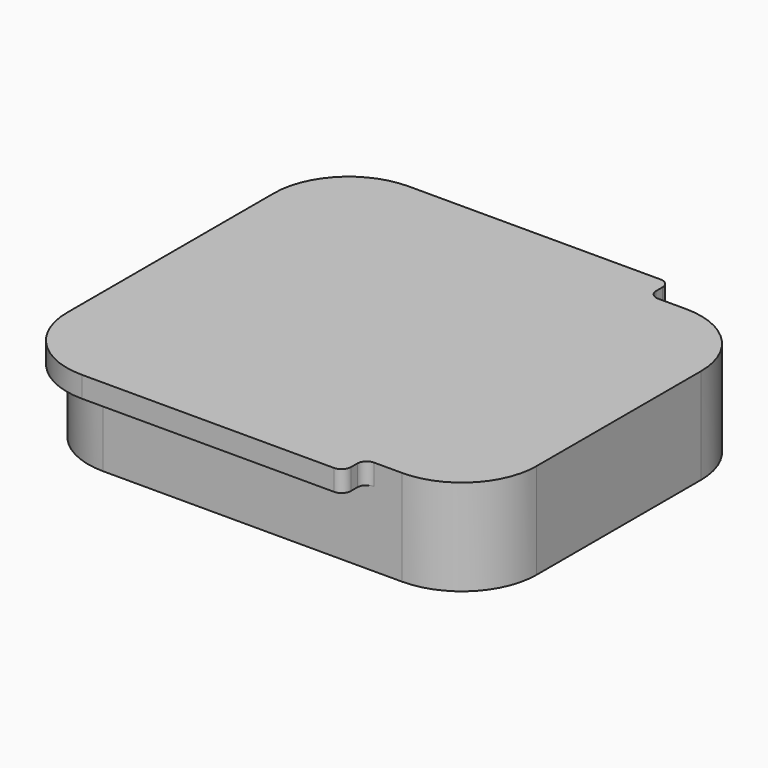
from build123d import *

# Parameters (mm, degrees)
F1_DEPTH = 10.25
F2_T     = -1.9
F4_DEPTH = 2.25
F5_R     = 1


with BuildPart() as f1:
    # F0 (on Top) → F1 (new body)
    with BuildSketch(Plane.XY):
        with BuildLine():
            Line((16, 19), (-16, 19))
            ThreePointArc((-16, 19), (-21.6568542495, 16.6568542495), (-24, 11))
            Line((-24, 11), (-24, -11))
            ThreePointArc((-24, -11), (-21.6568542495, -16.6568542495), (-16, -19))
            Line((-16, -19), (16, -19))
            ThreePointArc((16, -19), (21.6568542495, -16.6568542495), (24, -11))
            Line((24, -11), (24, 11))
            ThreePointArc((24, 11), (21.6568542495, 16.6568542495), (16, 19))
        make_face()
    extrude(amount=F1_DEPTH)

    # F2
    f2_openings = [f1.faces().sort_by_distance(p)[0] for p in [
        (0, 0, 0),
    ]]
    offset(amount=F2_T, openings=f2_openings)

    # F3 (on face) → F4 (join)
    with BuildSketch(Plane.XY.offset(10.25)):
        with BuildLine():
            Line((12, 21.85), (-16, 21.85))
            ThreePointArc((-16, 21.85), (-21.6568542495, 19.5068542495), (-24, 13.85))
            Line((-24, 13.85), (-24, 11))
            ThreePointArc((-24, 11), (-21.6568542495, 16.6568542495), (-16, 19))
            Line((-16, 19), (12, 19))
            Line((12, 19), (12, 21.85))
        make_face()
        with BuildLine():
            Line((12, -21.85), (12, -19))
            Line((12, -19), (-16, -19))
            ThreePointArc((-16, -19), (-21.6568542495, -16.6568542495), (-24, -11))
            Line((-24, -11), (-24, -13.85))
            ThreePointArc((-24, -13.85), (-21.6568542495, -19.5068542495), (-16, -21.85))
            Line((-16, -21.85), (12, -21.85))
        make_face()
    extrude(amount=-F4_DEPTH)

    # F5
    f5_edges = [f1.edges().sort_by_distance(p)[0] for p in [
        (12, 19, 9.125),
        (12, 21.85, 9.125),
        (12, -19, 9.125),
        (12, -21.85, 9.125),
    ]]
    fillet(f5_edges, radius=F5_R)


solid = f1.part
